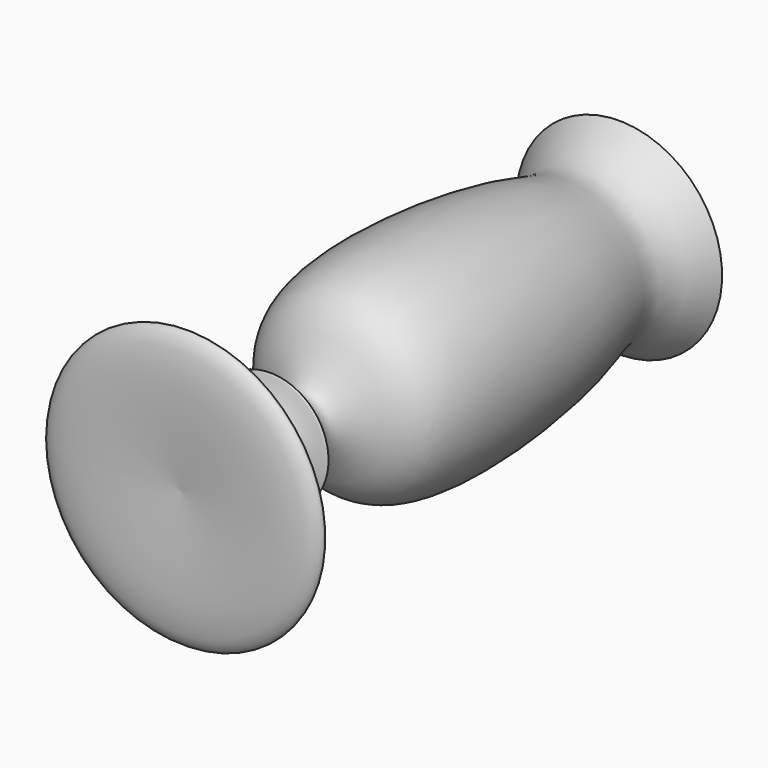
from build123d import *


with BuildPart() as f1:
    # F0 (on Top) → F1 (revolve)
    with BuildSketch(Plane.XY):
        with BuildLine():
            Line((-47.54980281, 63.7060776353), (-58.9754674556, 63.7060776353))
            add(Edge.make_bspline(
                [(-58.9754674556, 63.7060776353), (-57.7498935697, 61.7291022439), (-54.9991589182, 58.233685731), (-58.4236429252, 51.7019163642), (-60.8056910838, 25.7735623052), (-53.7797495018, 22.4618981583), (-47.8292445061, 19.3569719086), (-55.1009031667, 15.0070898381), (-52.8907783597, 15.0936416414), (-46.7552055375, 12.077482335), (-55.5123268855, 6.5069069248), (-58.5658032122, 7.1700138576), (-57.3336211404, 4.7347869225), (-63.8228008353, 4.3920816427), (-61.6086610889, 1.6345863515), (-53.7001144836, 2.2943129218), (-47.54980281, 2.8073685244)],
                knots=[0, 0, 0, 0, 0.0746254959, 0.1562152458, 0.3068566782, 0.3879640803, 0.4506008143, 0.5218559324, 0.5515006488, 0.6161513213, 0.7016761403, 0.7483369464, 0.7823064845, 0.8493136441, 0.8836178899, 1, 1, 1, 1], degree=3))
            Line((-47.54980281, 2.8073685244), (-47.54980281, 22.2417730838))
            Line((-47.54980281, 22.2417730838), (-47.54980281, 63.7060776353))
        make_face()
    revolve(axis=Axis((-47.54980281, 42.9739253595, 0), (0, 1, 0)))


solid = f1.part
